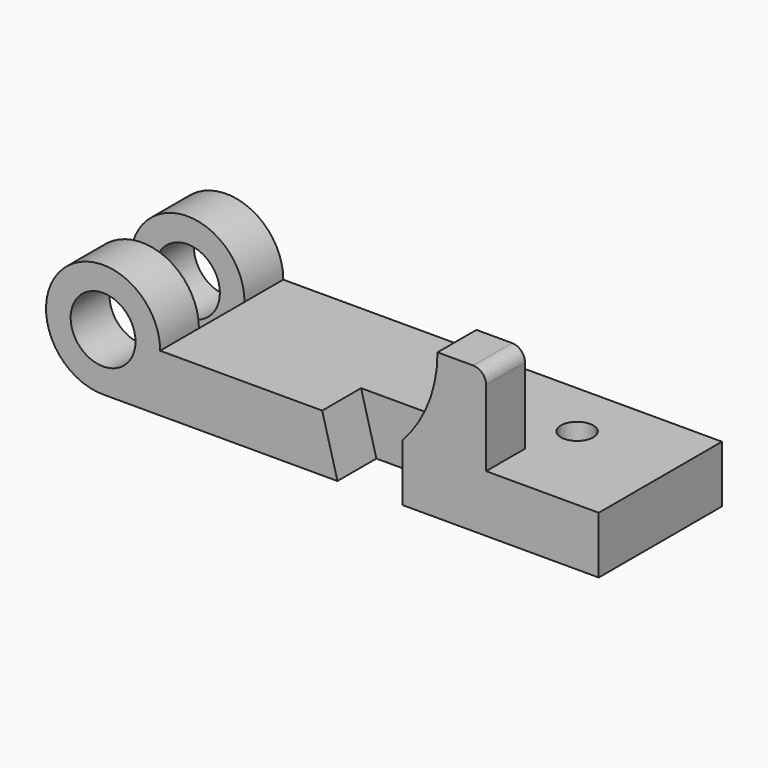
from build123d import *

# Parameters (mm, degrees)
F0_R      = 12.7
F1_DEPTH  = 30.1625
F3_DEPTH  = 19.05
F4_W      = 32.8422
F4_H      = 22.352
F5_DEPTH  = 19.05
F6_R      = 6.35
F7_DEPTH  = 22.353
F9_W      = 44.704
F9_H      = 22.3266
F10_DEPTH = 149.353


with BuildPart() as f1:
    # F0 (on Front) → F1 (new body, symmetric)
    with BuildSketch(Plane.XZ):
        with BuildLine():
            Line((194.2084, 0), (22.352, 0))
            ThreePointArc((22.352, 0), (-15.805251, 15.805251), (0, -22.352))
            Line((0, -22.352), (194.2084, -22.352))
            Line((194.2084, -22.352), (194.2084, 0))
        make_face()
        Circle(F0_R, mode=Mode.SUBTRACT)
    extrude(amount=F1_DEPTH, both=True)

    # F2 (on face) → F3 (cut)
    with BuildSketch(Plane.XZ.offset(30.1625)):
        Polygon((91.8464, -22.352), (150.0886, -22.352), (150.0886, 0), (85.852, 0), align=None)
    extrude(amount=-F3_DEPTH, mode=Mode.SUBTRACT)

    # F4 (on face) → F5 (join)
    with BuildSketch(Plane.XZ.offset(11.1125)):
        with BuildLine():
            Line((117.2464, 0), (150.0886, 0))
            Line((150.0886, 0), (150.0886, 29.718))
            ThreePointArc((150.0886, 29.718), (148.600702, 33.310102), (145.0086, 34.798))
            Line((145.0086, 34.798), (131.0386, 34.798))
            ThreePointArc((131.0386, 34.798), (127.464415, 16.082358), (117.2464, 0))
        make_face()
        with Locations((133.6675, -11.176)):
            Rectangle(F4_W, F4_H)
    extrude(amount=F5_DEPTH)

    # F6 (on Top) → F7 (cut, through all)
    with BuildSketch(Plane.XY):
        with Locations((155.3464, 7.8105)):
            Circle(F6_R)
    extrude(amount=-F7_DEPTH, mode=Mode.SUBTRACT)

    # F9 (on offset) → F10 (cut, through all)
    with BuildSketch(Plane.XY.offset(127)):
        Rectangle(F9_W, F9_H)
    extrude(amount=-F10_DEPTH, mode=Mode.SUBTRACT)


solid = f1.part
